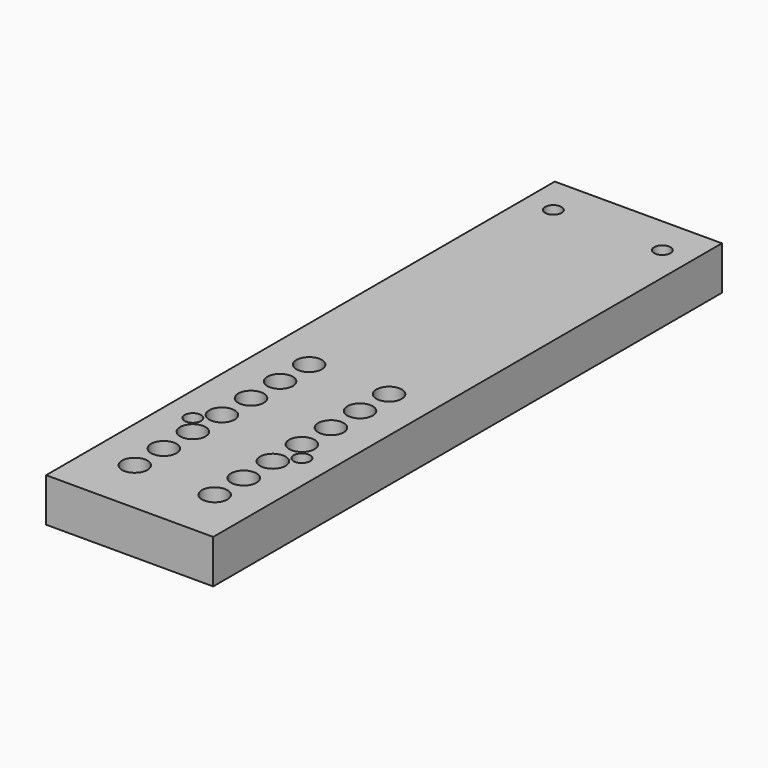
from build123d import *

# Parameters (mm, degrees)
F0_W     = 46
F0_H     = 145
F0_R     = 2.25
F0_H_2   = 30
F1_DEPTH = 12
F3_DEPTH = 5
F4_R     = 2.15
F5_DEPTH = 25
F6_R     = 3.5
F7_DEPTH = 4
F8_R     = 3.5
F9_DEPTH = 4


with BuildPart() as f1:
    # F0 (on Top) → F1 (new body)
    with BuildSketch(Plane.XY):
        Rectangle(F0_W, F0_H)
        with Locations((-15, -62)):
            Circle(F0_R, mode=Mode.SUBTRACT)
        with Locations((15, -62)):
            Circle(F0_R, mode=Mode.SUBTRACT)
        with Locations((-15, 62)):
            Circle(F0_R, mode=Mode.SUBTRACT)
        with Locations((15, 62)):
            Circle(F0_R, mode=Mode.SUBTRACT)
        with Locations((0, -87.5)):
            Rectangle(F0_W, F0_H_2)
    extrude(amount=F1_DEPTH)

    # F2 (on face) → F3 (cut)
    with BuildSketch(Plane(origin=(0, 0, 0), x_dir=(1, 0, 0), z_dir=(0, 0, -1))):
        Polygon((11.5, -59.979274), (11.5, -64.020726), (15, -66.041452), (18.5, -64.020726), (18.5, -59.979274), (15, -57.958548), align=None)
        Polygon((18.5, 59.979274), (18.5, 64.020726), (15, 66.041452), (11.5, 64.020726), (11.5, 59.979274), (15, 57.958548), align=None)
        Polygon((-11.5, -64.020726), (-11.5, -59.979274), (-15, -57.958548), (-18.5, -59.979274), (-18.5, -64.020726), (-15, -66.041452), align=None)
        Polygon((-11.5, 59.979274), (-11.5, 64.020726), (-15, 66.041452), (-18.5, 64.020726), (-18.5, 59.979274), (-15, 57.958548), align=None)
    extrude(amount=-F3_DEPTH, mode=Mode.SUBTRACT)

    # F4 (on face) → F5 (cut)
    with BuildSketch(Plane.XY.offset(12)):
        with Locations((11, -67)):
            Circle(F4_R)
        with Locations((11, -57)):
            Circle(F4_R)
        with Locations((11, -47)):
            Circle(F4_R)
        with Locations((11, -37)):
            Circle(F4_R)
        with Locations((-11, -67)):
            Circle(F4_R)
        with Locations((-11, -57)):
            Circle(F4_R)
        with Locations((-11, -47)):
            Circle(F4_R)
        with Locations((-11, -37)):
            Circle(F4_R)
        with Locations((11, -27)):
            Circle(F4_R)
        with Locations((-11, -27)):
            Circle(F4_R)
        with Locations((11, -77)):
            Circle(F4_R)
        with Locations((11, -87)):
            Circle(F4_R)
        with Locations((-11, -77)):
            Circle(F4_R)
        with Locations((-11, -87)):
            Circle(F4_R)
    extrude(amount=-F5_DEPTH, mode=Mode.SUBTRACT)

    # F6 (on face) → F7 (cut)
    with BuildSketch(Plane.XY.offset(12)):
        with Locations((11, -67)):
            Circle(F6_R)
        with Locations((11, -57)):
            Circle(F6_R)
        with Locations((11, -47)):
            Circle(F6_R)
        with Locations((11, -37)):
            Circle(F6_R)
        with Locations((11, -27)):
            Circle(F6_R)
        with Locations((-11, -67)):
            Circle(F6_R)
        with Locations((-11, -57)):
            Circle(F6_R)
        with Locations((-11, -47)):
            Circle(F6_R)
        with Locations((-11, -37)):
            Circle(F6_R)
        with Locations((-11, -27)):
            Circle(F6_R)
    extrude(amount=-F7_DEPTH, mode=Mode.SUBTRACT)

    # F8 (on face) → F9 (cut)
    with BuildSketch(Plane.XY.offset(12)):
        with Locations((-11, -77)):
            Circle(F8_R)
        with Locations((-11, -87)):
            Circle(F8_R)
        with Locations((11, -77)):
            Circle(F8_R)
        with Locations((11, -87)):
            Circle(F8_R)
    extrude(amount=-F9_DEPTH, mode=Mode.SUBTRACT)


solid = f1.part
